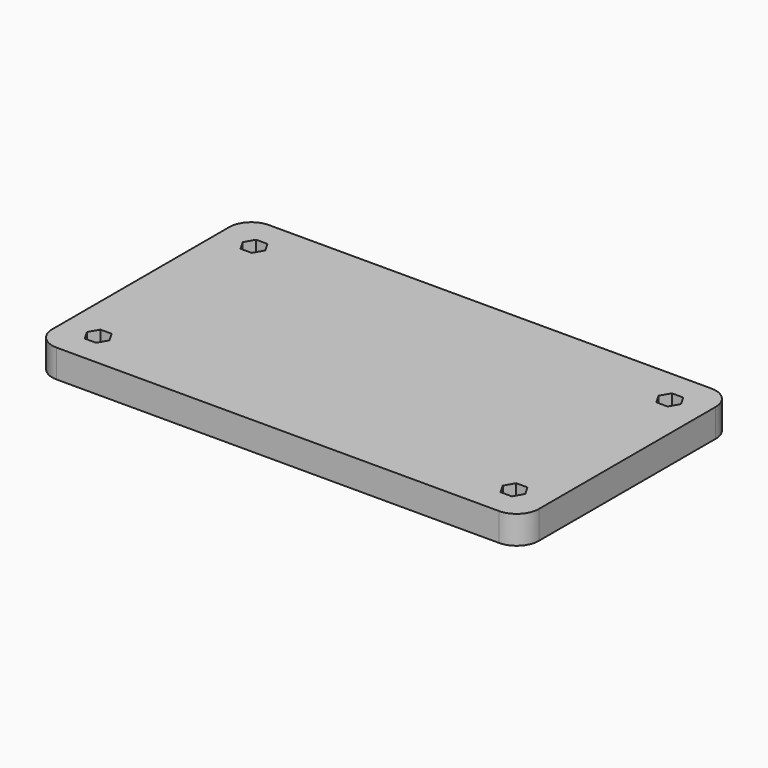
from build123d import *

# Parameters (mm, degrees)
F0_W     = 110
F0_H     = 60
F1_DEPTH = 6.35
F2_R     = 5


with BuildPart() as f1:
    # F0 (on Top) → F1 (new body)
    with BuildSketch(Plane.XY):
        Rectangle(F0_W, F0_H)
        Polygon((-45.725, -19.791635), (-44.45, -22), (-45.725, -24.208365), (-48.275, -24.208365), (-49.55, -22), (-48.275, -19.791635), align=None, mode=Mode.SUBTRACT)
        Polygon((45.725, -24.208365), (44.45, -22), (45.725, -19.791635), (48.275, -19.791635), (49.55, -22), (48.275, -24.208365), align=None, mode=Mode.SUBTRACT)
        Polygon((-45.725, 24.208365), (-44.45, 22), (-45.725, 19.791635), (-48.275, 19.791635), (-49.55, 22), (-48.275, 24.208365), align=None, mode=Mode.SUBTRACT)
        Polygon((45.725, 19.791635), (44.45, 22), (45.725, 24.208365), (48.275, 24.208365), (49.55, 22), (48.275, 19.791635), align=None, mode=Mode.SUBTRACT)
    extrude(amount=F1_DEPTH)

    # F2
    f2_edges = [f1.edges().sort_by_distance(p)[0] for p in [
        (-55, 30, 3.175),
        (-55, -30, 3.175),
        (55, 30, 3.175),
        (55, -30, 3.175),
    ]]
    fillet(f2_edges, radius=F2_R)


solid = f1.part
